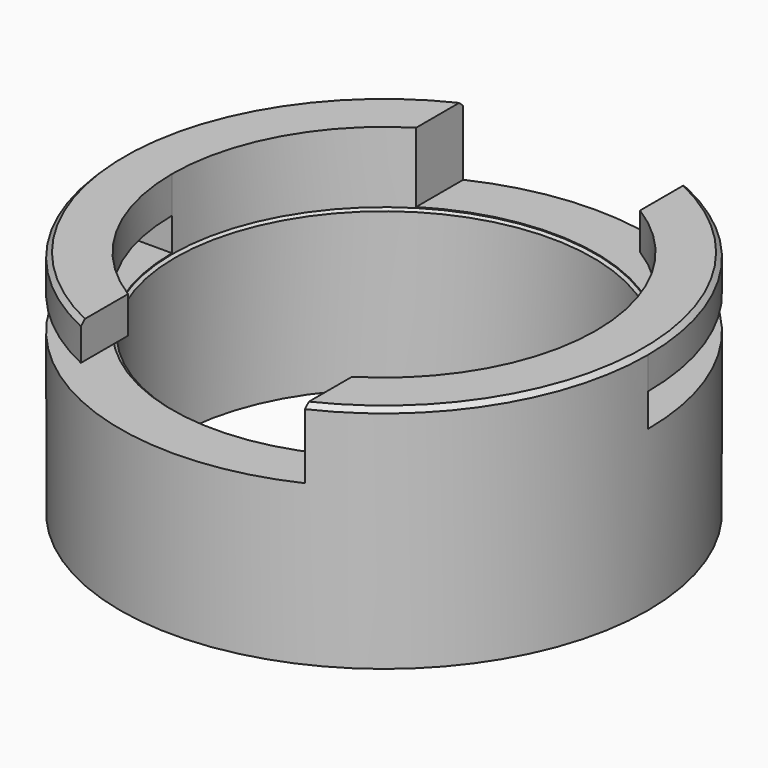
from build123d import *

# Parameters (mm, degrees)
F0_R      = 36.5125
F1_DEPTH  = 31.75
F2_D      = 57.785
F3_D      = 58.674
F3_DEPTH  = 9.779
F3_TIP    = 17.6274479804
F4_SIZE   = 0.635
F7_W      = 19.3039988202
F7_H      = 4.572
F8_ANGLE  = 90
F9_W      = 30.988
F9_H      = 9.652
F10_DEPTH = 50.8


with BuildPart() as f1:
    # F0 (on Top) → F1 (new body)
    with BuildSketch(Plane.XY):
        Circle(F0_R)
    extrude(amount=-F1_DEPTH)

    # F2 (through all)
    with Locations(Plane.XY):
        with Locations((0, 0)):
            Hole(F2_D / 2)

    # F3
    with Locations(Plane.XY):
        with Locations((0, 0)):
            Hole(F3_D / 2, depth=F3_DEPTH)
            with Locations((0, 0, -(F3_DEPTH + F3_TIP / 2))):  # 118° drill point
                Cone(0, F3_D / 2, F3_TIP, mode=Mode.SUBTRACT)

    # F4
    f4_edges = [f1.edges().sort_by_distance(p)[0] for p in [
        (-36.5125, 0, 0),
    ]]
    chamfer(f4_edges, length=F4_SIZE)

    # F7 (on Front) → F8 (revolve, cut)
    with BuildSketch(Plane.XZ):
        with Locations((-33.327289857, -7.366)):
            Rectangle(F7_W, F7_H)
        with Locations((33.327289857, -7.366)):
            Rectangle(F7_W, F7_H)
    revolve(axis=Axis((0, 0, -17.7771920571), (0, 0, 1)), revolution_arc=F8_ANGLE, mode=Mode.SUBTRACT)

    # F9 (on Front) → F10 (cut, symmetric)
    with BuildSketch(Plane.XZ):
        with Locations((0, -4.826)):
            Rectangle(F9_W, F9_H)
    extrude(amount=F10_DEPTH, both=True, mode=Mode.SUBTRACT)


solid = f1.part
